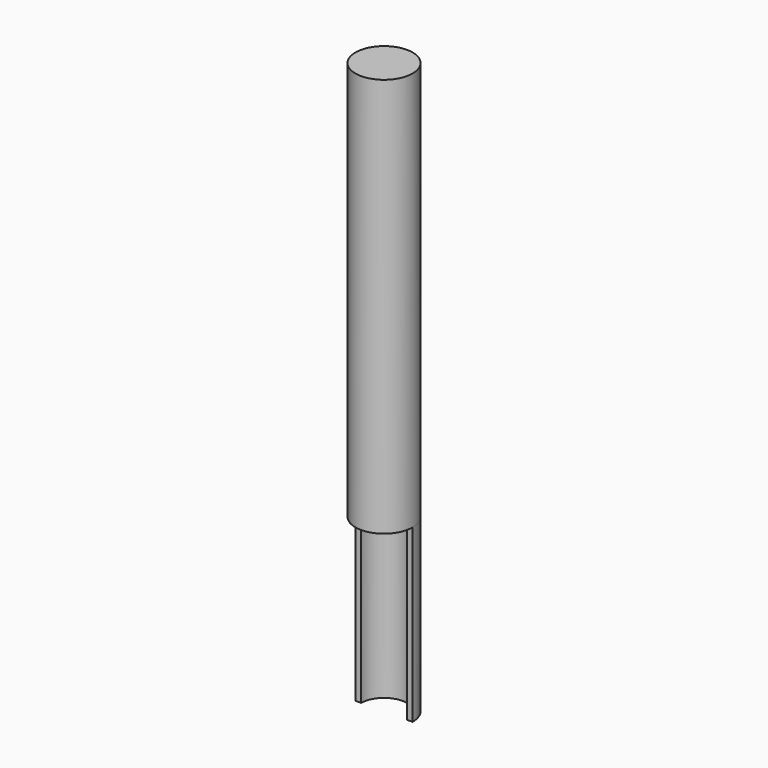
from build123d import *

# Parameters (mm, degrees)
F0_R     = 0.5
F1_DEPTH = 7
F3_DEPTH = 3


with BuildPart() as f1:
    # F0 (on Top) → F1 (new body)
    with BuildSketch(Plane.XY):
        Circle(F0_R)
    extrude(amount=F1_DEPTH)

    # F2 (on face) → F3 (join)
    with BuildSketch(Plane(origin=(0, 0, 0), x_dir=(1, 0, 0), z_dir=(0, 0, -1))):
        with BuildLine():
            Line((-0.4, 0), (-0.5, 0))
            ThreePointArc((-0.5, 0), (0, -0.5), (0.5, 0))
            Line((0.5, 0), (0.4, 0))
            ThreePointArc((0.4, 0), (0, -0.4), (-0.4, 0))
        make_face()
    extrude(amount=F3_DEPTH)


solid = f1.part
